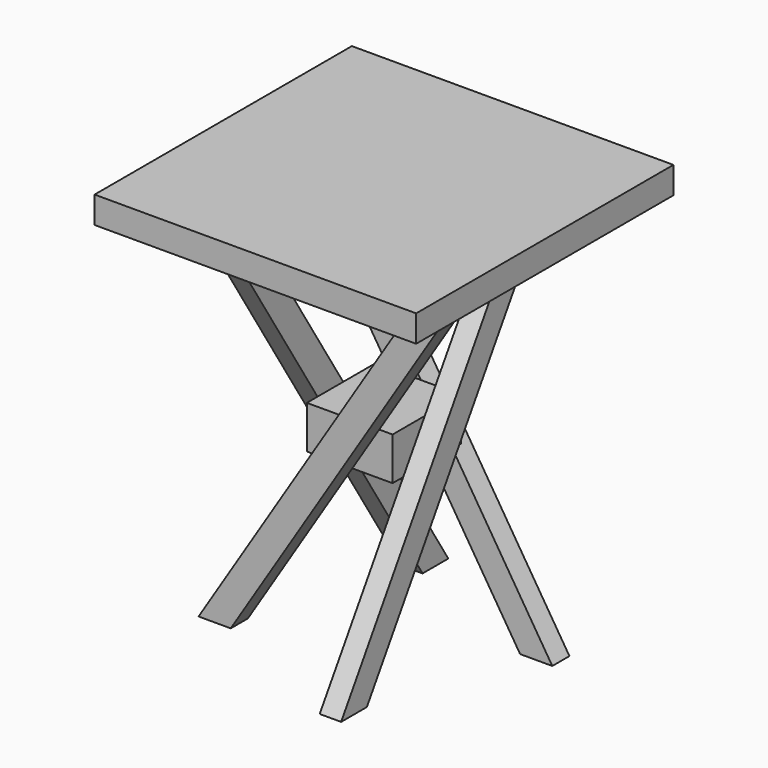
from build123d import *

# Parameters (mm, degrees)
F8_DEPTH  = 20
F9_DEPTH  = 20
F10_COUNT = 2
F10_ANGLE = 90
F3_W      = 80
F3_H      = 80
F11_DEPTH = 20
F0_W      = 300
F0_H      = 300
F0_W_2    = 80
F0_H_2    = 80
F12_DEPTH = 25


with BuildPart() as f8:
    # F7 (on line) → F8 (new body)
    with BuildSketch(Plane(origin=(0, -40, 0), x_dir=(-1, 0, 0), z_dir=(0, 1, 0))):
        Polygon((125, -350), (-95, 0), (-125, 0), (95, -350), align=None)
    extrude(amount=-F8_DEPTH)


with BuildPart() as f9:
    # F6 (on line) → F9 (new body)
    with BuildSketch(Plane(origin=(0, 40, 0), x_dir=(-1, 0, 0), z_dir=(0, 1, 0))):
        Polygon((-125, -350), (-95, -350), (125, 0), (95, 0), align=None)
    extrude(amount=F9_DEPTH)


with BuildPart() as f10_1:
    # F10: instance of F8
    add(f8.part.rotate(Axis((0, 0, -175), (0, 0, -1)), 1 * F10_ANGLE / (F10_COUNT - 1)))


with BuildPart() as f10_2:
    # F10: instance of F9
    add(f9.part.rotate(Axis((0, 0, -175), (0, 0, -1)), 1 * F10_ANGLE / (F10_COUNT - 1)))


with BuildPart() as f11:
    # F3 (on face) → F11 (new body, symmetric)
    with BuildSketch(Plane(origin=(0, 0, -175), x_dir=(1, 0, 0), z_dir=(0, 0, -1))):
        Rectangle(F3_W, F3_H)
    extrude(amount=F11_DEPTH, both=True)


with BuildPart() as f12:
    # F0 (on Top) → F12 (new body)
    with BuildSketch(Plane.XY):
        Rectangle(F0_W, F0_H)
        Rectangle(F0_W_2, F0_H_2, mode=Mode.SUBTRACT)
        Rectangle(F0_W_2, F0_H_2)
    extrude(amount=F12_DEPTH)


solid = Compound([f8.part, f9.part, f10_1.part, f10_2.part, f11.part, f12.part])
